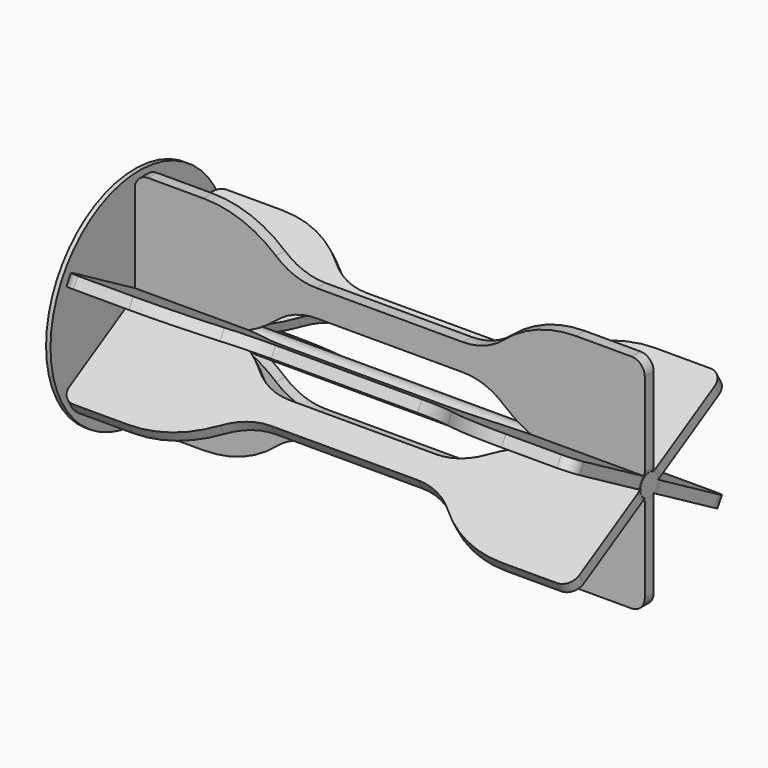
from build123d import *

# Parameters (mm, degrees)
F1_DEPTH = 2.5
F3_COUNT = 6
F4_R     = 2.5
F5_DEPTH = 115
F6_R     = 25
F7_DEPTH = 1


with BuildPart() as f1:
    # F0 (on Front) → F1 (new body)
    with BuildSketch(Plane.XZ):
        with BuildLine():
            Line((-42.009802, 12.5), (-54.5, 12.5))
            ThreePointArc((-54.5, 12.5), (-56.62132, 11.62132), (-57.5, 9.5))
            Line((-57.5, 9.5), (-57.5, -9.5))
            ThreePointArc((-57.5, -9.5), (-56.62132, -11.62132), (-54.5, -12.5))
            Line((-54.5, -12.5), (-42.009802, -12.5))
            ThreePointArc((-42.009802, -12.5), (-33.285022, -10.92815), (-25.657365, -6.410256))
            ThreePointArc((-25.657365, -6.410256), (-21.385877, -3.880236), (-16.5, -3))
            Line((-16.5, -3), (16.5, -3))
            ThreePointArc((16.5, -3), (21.385877, -3.880236), (25.657365, -6.410256))
            ThreePointArc((25.657365, -6.410256), (33.285022, -10.92815), (42.009802, -12.5))
            Line((42.009802, -12.5), (54.5, -12.5))
            ThreePointArc((54.5, -12.5), (56.62132, -11.62132), (57.5, -9.5))
            Line((57.5, -9.5), (57.5, 9.5))
            ThreePointArc((57.5, 9.5), (56.62132, 11.62132), (54.5, 12.5))
            Line((54.5, 12.5), (42.009802, 12.5))
            ThreePointArc((42.009802, 12.5), (33.285022, 10.92815), (25.657365, 6.410256))
            ThreePointArc((25.657365, 6.410256), (21.385877, 3.880236), (16.5, 3))
            Line((16.5, 3), (-16.5, 3))
            ThreePointArc((-16.5, 3), (-21.385877, 3.880236), (-25.657365, 6.410256))
            ThreePointArc((-25.657365, 6.410256), (-33.285022, 10.92815), (-42.009802, 12.5))
        make_face()
    extrude(amount=F1_DEPTH)

    # F3: F1 ×6 about axis
    f3_axis = Axis((0.011692, -1.25, 12.5), (-1, 0, 0))


with BuildPart() as f1_1:
    add(f1.part)
    for i in range(1, F3_COUNT):
        add(f1.part.rotate(f3_axis, i * 360 / F3_COUNT))

    # F4 (on face) → F5 (join, through all)
    with BuildSketch(Plane(origin=(-57.5, 0, 0), x_dir=(0, -1, 0), z_dir=(-1, 0, 0))):
        with Locations((1.25, 12.5)):
            Circle(F4_R)
    extrude(amount=-F5_DEPTH)

    # F6 (on face) → F7 (join)
    with BuildSketch(Plane(origin=(-57.5, 0, 0), x_dir=(0, -1, 0), z_dir=(-1, 0, 0))):
        with Locations((1.25, 12.5)):
            Circle(F6_R)
    extrude(amount=F7_DEPTH)


solid = f1_1.part
